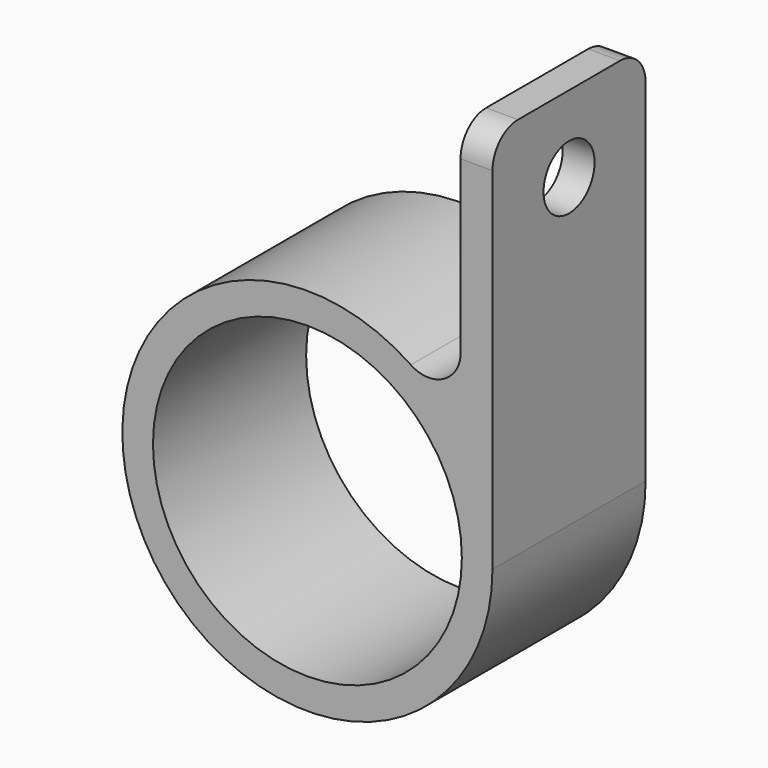
from build123d import *

# Parameters (mm, degrees)
F0_R     = 24.2
F1_DEPTH = 30
F2_R     = 5
F3_DEPTH = 25
F4_R     = 5


with BuildPart() as f1:
    # F0 (on Front) → F1 (new body)
    with BuildSketch(Plane.XZ):
        with BuildLine():
            Line((24, 60), (24, 16.278821))
            ThreePointArc((24, 16.278821), (-27.721833, -8.514693), (29, 0))
            Line((29, 0), (29, 60))
            Line((29, 60), (24, 60))
        make_face()
        Circle(F0_R, mode=Mode.SUBTRACT)
    extrude(amount=F1_DEPTH)

    # F2 (on face) → F3 (cut)
    with BuildSketch(Plane.YZ.offset(29)):
        with Locations((-15, 48)):
            Circle(F2_R)
    extrude(amount=-F3_DEPTH, mode=Mode.SUBTRACT)

    # F4
    f4_edges = [f1.edges().sort_by_distance(p)[0] for p in [
        (24, -15, 16.278821),
        (26.5, -30, 60),
        (26.5, 0, 60),
    ]]
    fillet(f4_edges, radius=F4_R)


solid = f1.part
